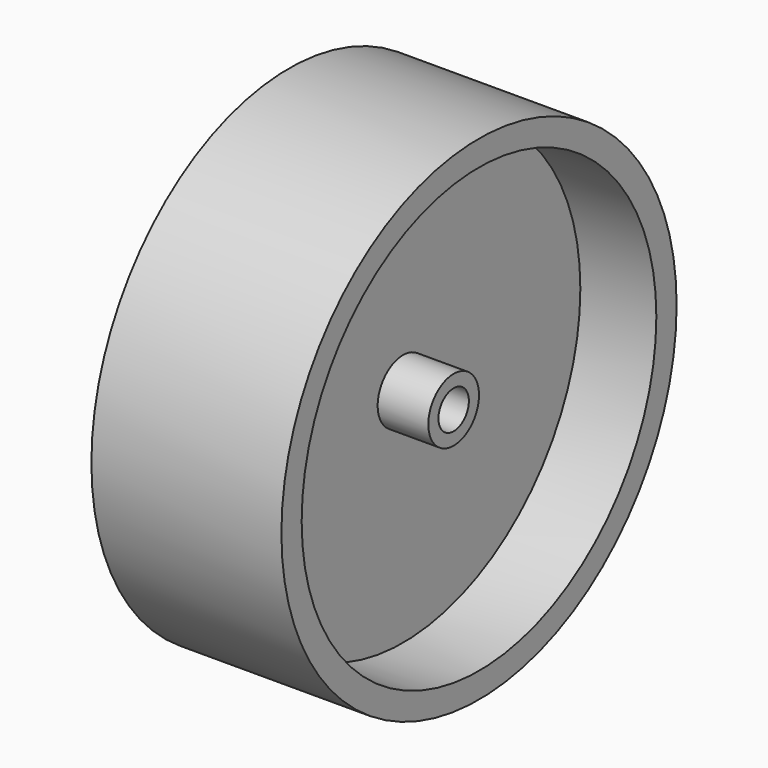
from build123d import *

# Parameters (mm, degrees)
F0_R      = 19.5
F1_DEPTH  = 7.5
F3_R      = 17.5
F4_DEPTH  = 2
F2_R      = 17.5
F5_DEPTH  = 2
F6_R      = 1.5
F7_DEPTH  = 25
F8_R      = 17.5
F8_R_2    = 2.5
F9_DEPTH  = 4
F10_R     = 17.5
F10_R_2   = 2.5
F11_DEPTH = 4


with BuildPart() as f1:
    # F0 (on Right) → F1 (new body, symmetric)
    with BuildSketch(Plane.YZ):
        Circle(F0_R)
    extrude(amount=F1_DEPTH, both=True)

    # F3 (on face) → F4 (cut)
    with BuildSketch(Plane(origin=(-7.5, 0, 0), x_dir=(0, -1, 0), z_dir=(-1, 0, 0))):
        Circle(F3_R)
    extrude(amount=-F4_DEPTH, mode=Mode.SUBTRACT)

    # F2 (on face) → F5 (cut)
    with BuildSketch(Plane.YZ.offset(7.5)):
        Circle(F2_R)
    extrude(amount=-F5_DEPTH, mode=Mode.SUBTRACT)

    # F6 (on face) → F7 (cut)
    with BuildSketch(Plane.YZ.offset(5.5)):
        Circle(F6_R)
    extrude(amount=-F7_DEPTH, mode=Mode.SUBTRACT)

    # F8 (on face) → F9 (cut)
    with BuildSketch(Plane.YZ.offset(5.5)):
        Circle(F8_R)
        Circle(F8_R_2, mode=Mode.SUBTRACT)
    extrude(amount=-F9_DEPTH, mode=Mode.SUBTRACT)

    # F10 (on face) → F11 (cut)
    with BuildSketch(Plane(origin=(-5.5, 0, 0), x_dir=(0, -1, 0), z_dir=(-1, 0, 0))):
        Circle(F10_R)
        Circle(F10_R_2, mode=Mode.SUBTRACT)
    extrude(amount=-F11_DEPTH, mode=Mode.SUBTRACT)


solid = f1.part
